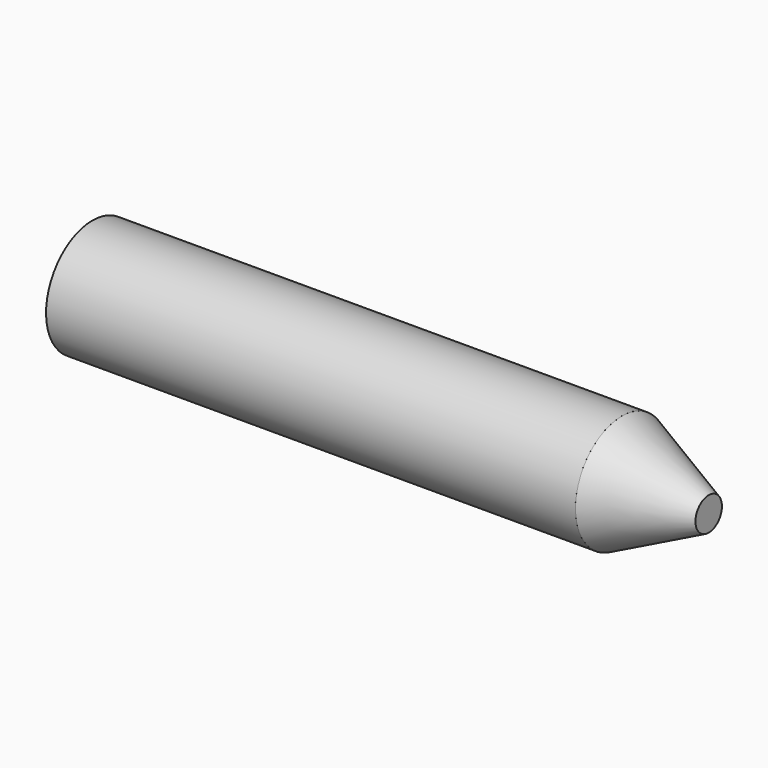
from build123d import *

# Parameters (mm, degrees)
CYLINDER022_R     = 7
CYLINDER022_DEPTH = 64


with BuildPart() as obj1:
    # Cone001 → Cone001 (revolve)
    with BuildSketch(Plane(origin=(-99.5, 36.6, 15.125), x_dir=(0, 0, 1), z_dir=(0, -1, 0))):
        Polygon((0, 0), (2, 0), (7, 10.5), (0, 10.5), align=None)
    revolve(axis=Axis((-99.5, 36.6, 15.125), (-1, 0, 0)))


with BuildPart() as fusion012:
    # Cylinder022 → Cylinder022 (new body)
    with BuildSketch(Plane(origin=(-110, 36.6, 15.125), x_dir=(0, 0, 1), z_dir=(-1, 0, 0))):
        Circle(CYLINDER022_R)
    extrude(amount=CYLINDER022_DEPTH)

    # Fusion012: union obj1
    add(obj1.part)


solid = fusion012.part
